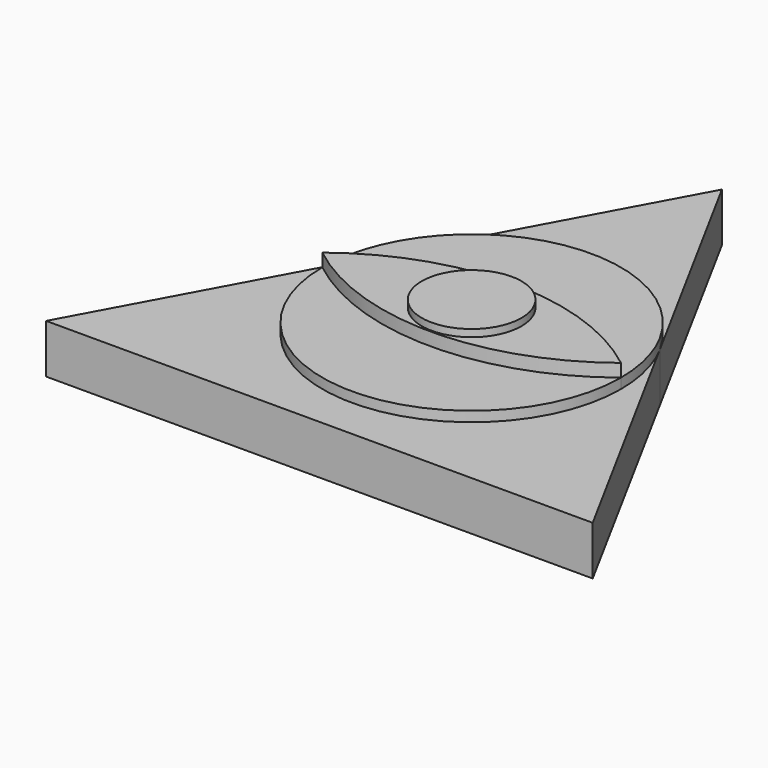
from build123d import *

# Parameters (mm, degrees)
F1_DEPTH = 17.272
F2_DEPTH = 20.828
F0_R     = 17.5643557077
F3_DEPTH = 25.4
F4_DEPTH = 27.94


with BuildPart() as f1:
    # F0 (on Top) → F1 (new body)
    with BuildSketch(Plane.XY):
        with BuildLine():
            ThreePointArc((52.5978398895, 0), (0, -52.5978398895), (-52.5978398895, 0))
            ThreePointArc((-52.5978398895, 0), (-50.9784025401, 12.9512638571), (-46.2198123565, 25.1050135784))
            Line((-46.2198123565, 25.1050135784), (-96.2664738897, -67.0338438372))
            Line((-96.2664738897, -67.0338438372), (0, -67.0338438372))
            Line((0, -67.0338438372), (96.2664738897, -67.0338438372))
            Line((96.2664738897, -67.0338438372), (46.2198122612, 25.1050137538))
            ThreePointArc((46.2198122612, 25.1050137538), (50.9784025155, 12.9512639538), (52.5978398895, 0))
        make_face()
    extrude(amount=F1_DEPTH)


with BuildPart() as f1b:
    # F0 (on Top) → F1, piece 2 (new body)
    with BuildSketch(Plane.XY):
        with BuildLine():
            Line((0, 110.1984158158), (-46.2198123565, 25.1050135784))
            ThreePointArc((-46.2198123565, 25.1050135784), (-9.98e-08, 52.5978398895), (46.2198122612, 25.1050137538))
            Line((46.2198122612, 25.1050137538), (0, 110.1984158158))
        make_face()
    extrude(amount=F1_DEPTH)


with BuildPart() as f2:
    # F0 (on Top) → F2 (new body)
    with BuildSketch(Plane.XY):
        with BuildLine():
            ThreePointArc((-46.2198123565, 25.1050135784), (-50.9784025401, 12.9512638571), (-52.5978398895, 0))
            ThreePointArc((-52.5978398895, 0), (0, 18.1721945675), (52.5978398895, 0))
            ThreePointArc((52.5978398895, 0), (50.9784025155, 12.9512639538), (46.2198122612, 25.1050137538))
            ThreePointArc((46.2198122612, 25.1050137538), (-9.98e-08, 52.5978398895), (-46.2198123565, 25.1050135784))
        make_face()
    extrude(amount=F2_DEPTH)


with BuildPart() as f2b:
    # F0 (on Top) → F2, piece 2 (new body)
    with BuildSketch(Plane.XY):
        with BuildLine():
            ThreePointArc((52.5978398895, 0), (0, -18.1721945675), (-52.5978398895, 0))
            ThreePointArc((-52.5978398895, 0), (0, -52.5978398895), (52.5978398895, 0))
        make_face()
    extrude(amount=F2_DEPTH)


with BuildPart() as f3:
    # F0 (on Top) → F3 (new body)
    with BuildSketch(Plane.XY):
        with BuildLine():
            ThreePointArc((52.5978398895, 0), (0, 18.1721945675), (-52.5978398895, 0))
            ThreePointArc((-52.5978398895, 0), (0, -18.1721945675), (52.5978398895, 0))
        make_face()
        Circle(F0_R, mode=Mode.SUBTRACT)
    extrude(amount=F3_DEPTH)

    # F0 (on Top) → F4 (join)
    with BuildSketch(Plane.XY):
        Circle(F0_R)
    extrude(amount=F4_DEPTH)


solid = Compound([f1.part, f1b.part, f2.part, f2b.part, f3.part])
